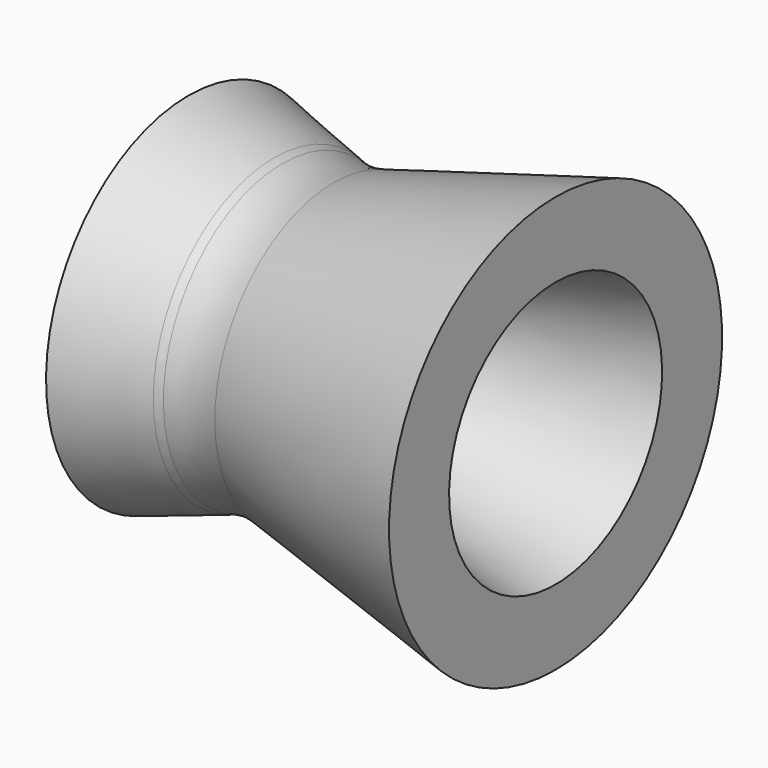
from build123d import *


with BuildPart() as f1:
    # F0 (on Front) → F1 (revolve)
    with BuildSketch(Plane.XZ):
        with BuildLine():
            Line((2.742977, 7.86112), (26.4, 14.2))
            Line((26.4, 14.2), (26.4, 22.2))
            Line((26.4, 22.2), (2.742977, 15.86112))
            ThreePointArc((2.742977, 15.86112), (0, 15.5), (-2.742977, 15.86112))
            ThreePointArc((-2.742977, 15.86112), (-3.173917, 15.986427), (-3.599165, 16.129867))
            Line((-3.599165, 16.129867), (-12.742977, 19))
            Line((-12.742977, 19), (-12.742977, 11))
            Line((-12.742977, 11), (-3.599165, 8.129867))
            Line((-3.599165, 8.129867), (-2.742977, 7.86112))
            ThreePointArc((-2.742977, 7.86112), (0, 7.5), (2.742977, 7.86112))
        make_face()
    revolve(axis=Axis((13.2, 0, 0), (1, 0, 0)))


solid = f1.part
